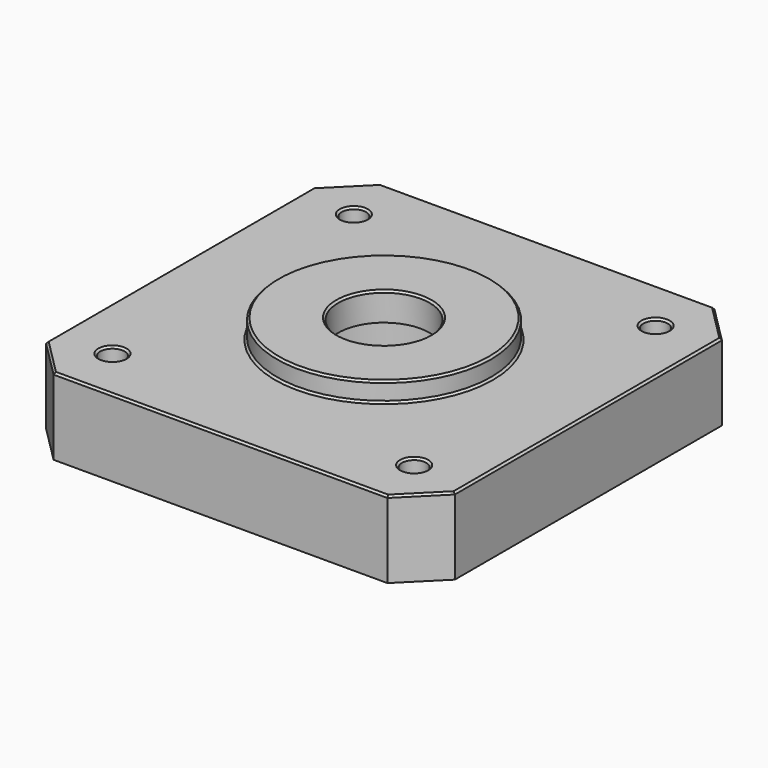
from build123d import *

# Parameters (mm, degrees)
SKETCH_R          = 11
PAD_DEPTH         = 2
PAD001_DEPTH      = 7.9
SKETCH002_R       = 4.7
POCKET_DEPTH      = 7.901
POCKET_DEPTH_BACK = 2.001
SKETCH003_R       = 1.25
HOLE_DEPTH        = 7.901
SKETCH004_R       = 8
POCKET001_DEPTH   = 7
CHAMFER_SIZE      = 0.2


with BuildPart() as part:
    # Sketch → Pad (new body)
    with BuildSketch(Plane.XY):
        Circle(SKETCH_R)
    extrude(amount=PAD_DEPTH)

    # Sketch001 → Pad001 (join)
    with BuildSketch(Plane.XY):
        Polygon((-21, 17.15), (-21, -17.15), (-17.15, -21), (17.15, -21), (21, -17.15), (21, 17.15), (17.15, 21), (-17.15, 21), align=None)
    extrude(amount=-PAD001_DEPTH)

    # Sketch002 → Pocket (cut, two sides)
    with BuildSketch(Plane.XY) as pocket_sk:
        Circle(SKETCH002_R)
    extrude(amount=-POCKET_DEPTH, mode=Mode.SUBTRACT)
    extrude(pocket_sk.sketch, amount=POCKET_DEPTH_BACK, mode=Mode.SUBTRACT)

    # Sketch003 → Hole (cut, through all)
    with BuildSketch(Plane.XY):
        with Locations((-15.5, 15.5)):
            Circle(SKETCH003_R)
        with Locations((15.5, 15.5)):
            Circle(SKETCH003_R)
        with Locations((15.5, -15.5)):
            Circle(SKETCH003_R)
        with Locations((-15.5, -15.5)):
            Circle(SKETCH003_R)
    extrude(amount=-HOLE_DEPTH, mode=Mode.SUBTRACT)

    # Sketch004 → Pocket001 (cut)
    with BuildSketch(Plane(origin=(0, 0, -7.9), x_dir=(1, 0, 0), z_dir=(0, 0, -1))):
        Circle(SKETCH004_R)
    extrude(amount=-POCKET001_DEPTH, mode=Mode.SUBTRACT)

    # Chamfer
    chamfer_edges = [part.edges().sort_by_distance(p)[0] for p in [
        (-21, 0, 0),
        (-19.075, 19.075, 0),
        (-19.075, -19.075, 0),
        (0, 21, 0),
        (0, -21, 0),
        (19.075, 19.075, 0),
        (19.075, -19.075, 0),
        (21, 0, 0),
        (-16.75, -15.5, 0),
        (-16.75, 15.5, 0),
        (-11, 0, 0),
        (14.25, 15.5, 0),
        (14.25, -15.5, 0),
        (-11, 0, 2),
        (-4.7, 0, 2),
    ]]
    chamfer(chamfer_edges, length=CHAMFER_SIZE)


solid = part.part
